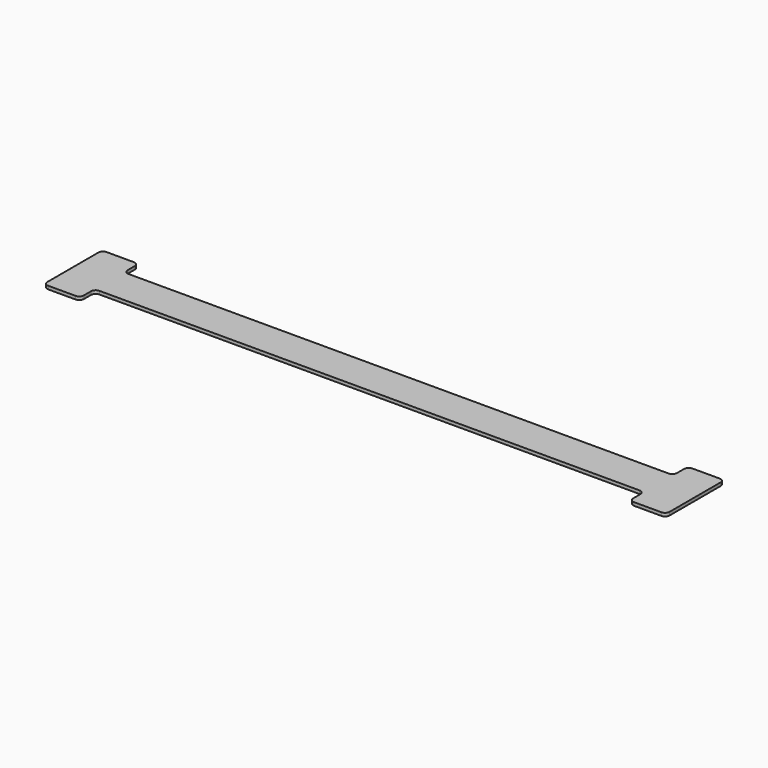
from build123d import *

# Parameters (mm, degrees)
F0_W     = 40
F0_H     = 20
F1_DEPTH = 3.55
F2_R     = 5


with BuildPart() as f1:
    # F0 (on Top) → F1 (new body)
    with BuildSketch(Plane.XY):
        Polygon((341.25, 0), (341.25, 20), (301.25, 20), (301.25, 0), (301.25, -20), (341.25, -20), align=None)
        with Locations((321.25, 30)):
            Rectangle(F0_W, F0_H)
        Polygon((301.25, 0), (301.25, 20), (-301.25, 20), (-301.25, 0), (-301.25, -20), (301.25, -20), align=None)
        Polygon((-301.25, 0), (-301.25, 20), (-341.25, 20), (-341.25, 0), (-341.25, -20), (-301.25, -20), align=None)
        with Locations((-321.25, 30)):
            Rectangle(F0_W, F0_H)
        with Locations((321.25, -30)):
            Rectangle(F0_W, F0_H)
        with Locations((-321.25, -30)):
            Rectangle(F0_W, F0_H)
    extrude(amount=F1_DEPTH)

    # F2
    f2_edges = [f1.edges().sort_by_distance(p)[0] for p in [
        (-301.25, 20, 1.775),
        (-301.25, 40, 1.775),
        (-341.25, 40, 1.775),
        (-301.25, -40, 1.775),
        (-341.25, -40, 1.775),
        (-301.25, -20, 1.775),
        (301.25, -20, 1.775),
        (301.25, -40, 1.775),
        (341.25, -40, 1.775),
        (341.25, 40, 1.775),
        (301.25, 40, 1.775),
        (301.25, 20, 1.775),
    ]]
    fillet(f2_edges, radius=F2_R)


solid = f1.part
